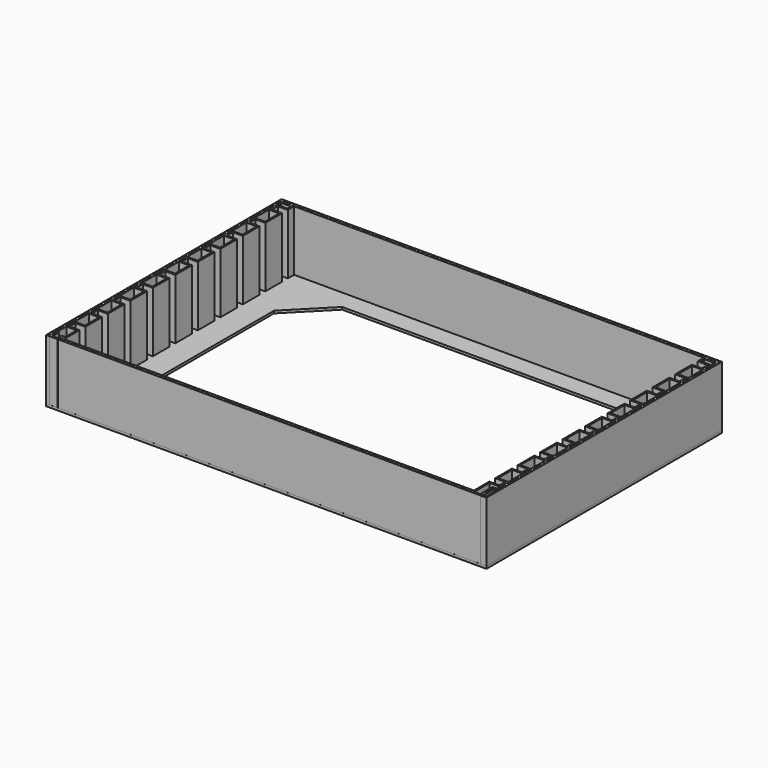
from build123d import *

# Parameters (mm, degrees)
F1_DEPTH = 15
F2_W     = 109.6
F2_H     = 73.25603
F3_DEPTH = 0.6


with BuildPart() as f1:
    # F0 (on Top) → F1 (new body)
    with BuildSketch(Plane.XY):
        Polygon((51, 0), (0, 0), (0, 4.8), (-2.5, 4.8), (-2.5, 6.6), (0, 6.6), (0, 7), (0, 11.8), (-2.5, 11.8), (-2.5, 13.6), (0, 13.6), (0, 14), (0, 18.8), (-2.5, 18.8), (-2.5, 20.6), (0, 20.6), (0, 21), (0, 25.8), (-2.5, 25.8), (-2.5, 27.6), (0, 27.6), (0, 28), (0, 32.8), (-2.5, 32.8), (-2.5, 34.6), (0, 34.6), (0, 35), (0, 39.8), (-2.5, 39.8), (-2.5, 41.6), (0, 41.6), (0, 42), (0, 46.8), (-2.5, 46.8), (-2.5, 48.6), (0, 48.6), (0, 49), (0, 53.8), (-2.5, 53.8), (-2.5, 55.6), (0, 55.6), (0, 56), (0, 60.8), (-2.5, 60.8), (-2.5, 62.6), (0, 62.6), (0, 63), (0, 67.8), (-2.5, 67.8), (-2.5, 69.6), (0, 69.6), (0, 70), (0, 71.5), (-2.9, 71.5), (-2.9, 71.1), (-0.4, 71.1), (-0.4, 70), (-2.9, 70), (-2.9, 67.4), (-0.4, 67.4), (-0.4, 63), (-2.9, 63), (-2.9, 60.4), (-0.4, 60.4), (-0.4, 56), (-2.9, 56), (-2.9, 53.4), (-0.4, 53.4), (-0.4, 49), (-2.9, 49), (-2.9, 46.4), (-0.4, 46.4), (-0.4, 42), (-2.9, 42), (-2.9, 39.4), (-0.4, 39.4), (-0.4, 35), (-2.9, 35), (-2.9, 32.4), (-0.4, 32.4), (-0.4, 28), (-2.9, 28), (-2.9, 25.4), (-0.4, 25.4), (-0.4, 21), (-2.9, 21), (-2.9, 18.4), (-0.4, 18.4), (-0.4, 14), (-2.9, 14), (-2.9, 11.4), (-0.4, 11.4), (-0.4, 7), (-2.9, 7), (-2.9, 4.4), (-0.4, 4.4), (-0.4, 0), (-0.4, -0.4), (51, -0.4), (102.4, -0.4), (102.4, 0), (102.4, 4.4), (104.9, 4.4), (104.9, 7), (102.4, 7), (102.4, 11.4), (104.9, 11.4), (104.9, 14), (102.4, 14), (102.4, 18.4), (104.9, 18.4), (104.9, 21), (102.4, 21), (102.4, 25.4), (104.9, 25.4), (104.9, 28), (102.4, 28), (102.4, 32.4), (104.9, 32.4), (104.9, 35), (102.4, 35), (102.4, 39.4), (104.9, 39.4), (104.9, 42), (102.4, 42), (102.4, 46.4), (104.9, 46.4), (104.9, 49), (102.4, 49), (102.4, 53.4), (104.9, 53.4), (104.9, 56), (102.4, 56), (102.4, 60.4), (104.9, 60.4), (104.9, 63), (102.4, 63), (102.4, 67.4), (104.9, 67.4), (104.9, 70), (102.4, 70), (102.4, 71.1), (104.9, 71.1), (104.9, 71.5), (102, 71.5), (102, 70), (102, 69.6), (104.5, 69.6), (104.5, 67.8), (102, 67.8), (102, 63), (102, 62.6), (104.5, 62.6), (104.5, 60.8), (102, 60.8), (102, 56), (102, 55.6), (104.5, 55.6), (104.5, 53.8), (102, 53.8), (102, 49), (102, 48.6), (104.5, 48.6), (104.5, 46.8), (102, 46.8), (102, 42), (102, 41.6), (104.5, 41.6), (104.5, 39.8), (102, 39.8), (102, 35), (102, 34.6), (104.5, 34.6), (104.5, 32.8), (102, 32.8), (102, 28), (102, 27.6), (104.5, 27.6), (104.5, 25.8), (102, 25.8), (102, 21), (102, 20.6), (104.5, 20.6), (104.5, 18.8), (102, 18.8), (102, 14), (102, 13.6), (104.5, 13.6), (104.5, 11.8), (102, 11.8), (102, 7), (102, 6.6), (104.5, 6.6), (104.5, 4.8), (102, 4.8), (102, 0), align=None)
        Polygon((-2.95, 3.40002), (-2.95, 71.55), (51, 71.55), (104.95, 71.55), (104.95, 3.40002), (103.899943, 3.40002), (103.899943, 3.00002), (103.9, -0.44826), (-0.452649, -0.45), (-0.452649, 0), (-0.452649, 0.852392), (-1.302649, 0.852392), (-1.302649, -0.45), (-2.5, -0.45), (-2.5, 1.61228), (-2.9, 1.61228), (-2.9, -0.85), (-0.902649, -0.85), (-0.902649, 0.452392), (-0.852649, 0.452392), (-0.852649, -0.85), (104.3, -0.85), (104.3, 3.00002), (105.35, 3.00002), (105.35, 71.95), (51, 71.95), (-3.35, 71.95), (-3.35, -0.45), (-3.4, -0.45), (-3.4, 72), (105.4, 72), (105.4, 0), (105.4, -0.44826), (104.749937, -0.448271), (104.749937, 2.95002), (104.349937, 2.95002), (104.35, -0.850024), (105.8, -0.85), (105.8, 72.4), (-3.8, 72.4), (-3.8, -0.85), (-2.95, -0.85), align=None)
    extrude(amount=F1_DEPTH)


with BuildPart() as f3:
    # F2 (on Top) → F3 (new body)
    with BuildSketch(Plane.XY):
        with Locations((51, 35.775)):
            Rectangle(F2_W, F2_H)
        Polygon((6.395185, 57.314999), (15.754556, 66.814446), (86.245444, 66.814446), (95.604815, 57.314999), (95.604815, 14.235001), (86.245444, 4.735554), (15.754556, 4.735554), (6.395185, 14.235001), align=None, mode=Mode.SUBTRACT)
    extrude(amount=-F3_DEPTH)


solid = Compound([f1.part, f3.part])
